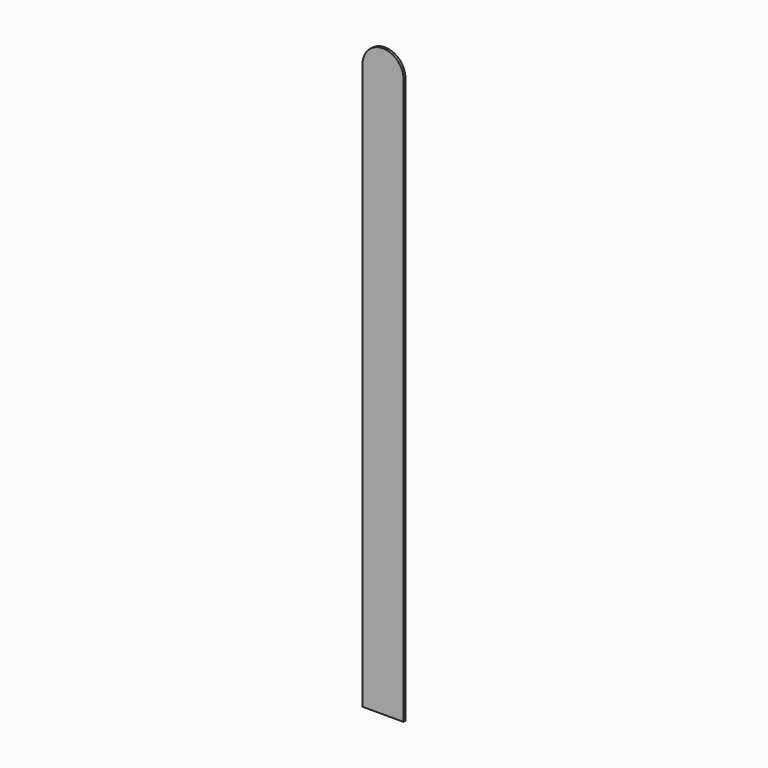
from build123d import *

# Parameters (mm, degrees)
F0_W     = 7.62
F0_H     = 105.21
F1_DEPTH = 0.44


with BuildPart() as f1:
    # F0 (on Front) → F1 (new body)
    with BuildSketch(Plane.XZ):
        with BuildLine():
            ThreePointArc((-6.745304, 48.883603), (-10.555304, 52.693603), (-14.365304, 48.883603))
            Line((-14.365304, 48.883603), (-6.745304, 48.883603))
        make_face()
        with Locations((-10.555304, -3.721397)):
            Rectangle(F0_W, F0_H)
    extrude(amount=F1_DEPTH)


solid = f1.part
